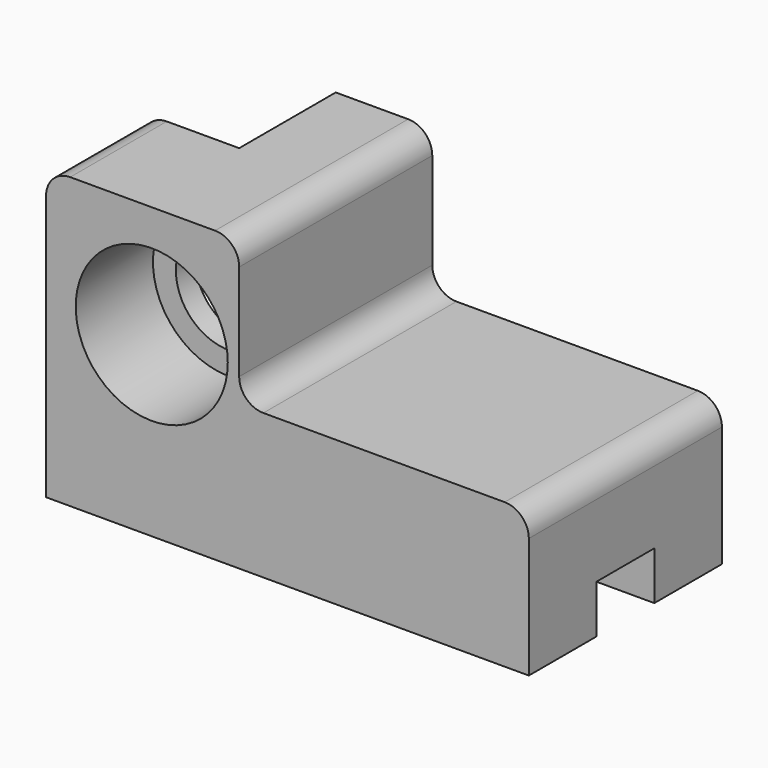
from build123d import *

# Parameters (mm, degrees)
F0_W           = 60
F0_H           = 30
F1_DEPTH       = 25
F2_R           = 5
F4_D           = 22
F4_CBORE_D     = 31.5
F4_CBORE_DEPTH = 20
F5_W           = 15
F5_H           = 10
F6_DEPTH       = 100.001
F7_W           = 15
F7_H           = 25
F8_DEPTH       = 60.001


with BuildPart() as f1:
    # F0 (on Front) → F1 (new body, symmetric)
    with BuildSketch(Plane.XZ):
        Polygon((-60, 60), (-100, 60), (-100, 0), (-60, 0), (-60, 30), align=None)
        with Locations((-30, 15)):
            Rectangle(F0_W, F0_H)
    extrude(amount=F1_DEPTH, both=True)

    # F2
    f2_edges = [f1.edges().sort_by_distance(p)[0] for p in [
        (-60, 0, 30),
        (-60, 0, 60),
        (0, 0, 30),
        (-100, 0, 60),
    ]]
    fillet(f2_edges, radius=F2_R)

    # F4 (through all)
    with Locations(Plane.XZ.offset(25)):
        with Locations((-78.1107470393, 36.7925874889)):
            CounterBoreHole(F4_D / 2, F4_CBORE_D / 2, F4_CBORE_DEPTH)

    # F5 (on face) → F6 (cut, through all)
    with BuildSketch(Plane.YZ):
        with Locations((0, 5)):
            Rectangle(F5_W, F5_H)
    extrude(amount=-F6_DEPTH, mode=Mode.SUBTRACT)

    # F7 (on face) → F8 (cut, through all)
    with BuildSketch(Plane.XY.offset(60)):
        Polygon((-80, 47.3070815206), (-123.8557249308, 47.3070815206), (-123.8557249308, 0), (-95, 0), (-95, 25), (-80, 25), align=None)
        with Locations((-87.5, 12.5)):
            Rectangle(F7_W, F7_H)
    extrude(amount=-F8_DEPTH, mode=Mode.SUBTRACT)


solid = f1.part
